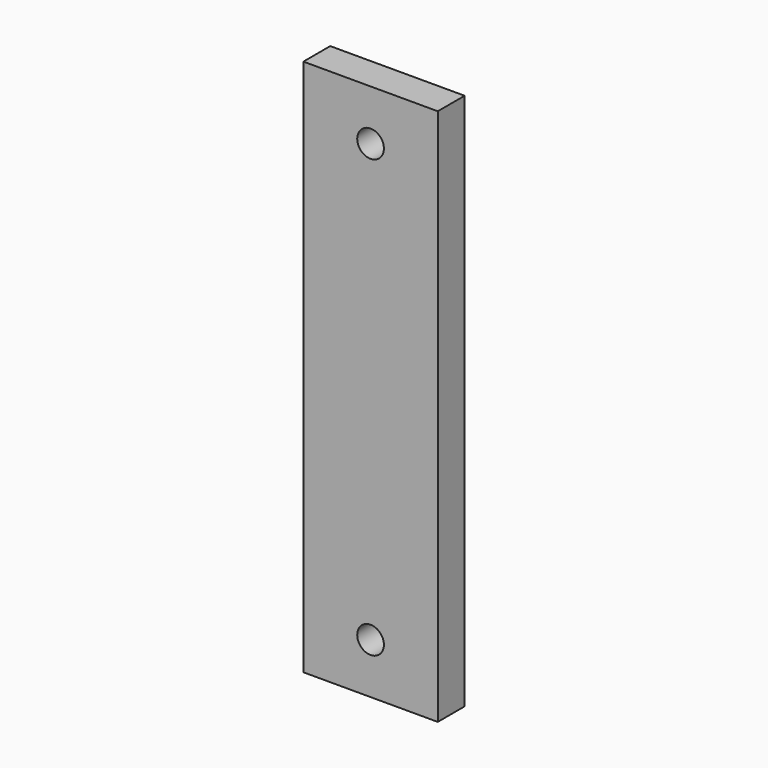
from build123d import *

# Parameters (mm, degrees)
F0_W     = 50.8
F0_H     = 203.2
F1_DEPTH = 12.7
F2_D     = 10.0838
F2_DEPTH = 12.7
F2_TIP   = 3.0294791551


with BuildPart() as f1:
    # F0 (on Front) → F1 (new body)
    with BuildSketch(Plane.XZ):
        Rectangle(F0_W, F0_H)
    extrude(amount=F1_DEPTH)

    # F2
    with Locations(Plane(origin=(0, 0, 0), x_dir=(1, 0, 0), z_dir=(0, 1, 0))):
        with Locations((0, -82.55), (0, 82.55)):
            Hole(F2_D / 2, depth=F2_DEPTH)
            with Locations((0, 0, -(F2_DEPTH + F2_TIP / 2))):  # 118° drill point
                Cone(0, F2_D / 2, F2_TIP, mode=Mode.SUBTRACT)


solid = f1.part
